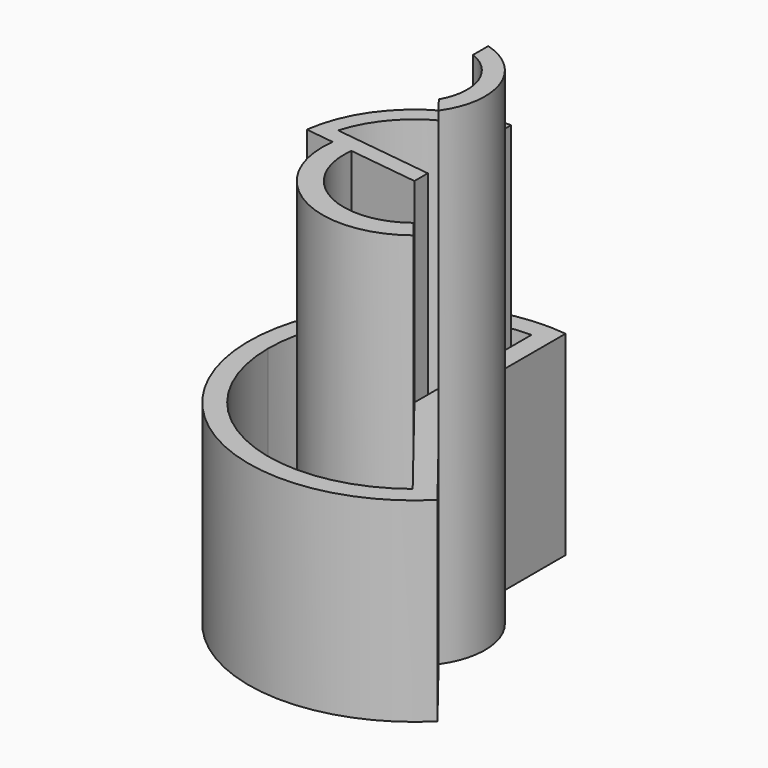
from build123d import *

# Parameters (mm, degrees)
F1_DEPTH = 20
F3_DEPTH = 25
F5_DEPTH = 50
F7_DEPTH = 40


with BuildPart() as f1:
    # F0 (on Top) → F1 (new body)
    with BuildSketch(Plane.XY):
        with BuildLine():
            ThreePointArc((2, 16.8819430161), (-7.8722441486, 15.0674407935), (-15, 8))
            Line((-15, 8), (-15, 1.73e-08))
            Line((-15, 1.73e-08), (-15, -8))
            ThreePointArc((-15, -8), (-2.5191792462, -16.8123090599), (11.9964033105, -12.0451777742))
            Line((11.9964033105, -12.0451777742), (2, 0.6911440225))
            Line((2, 0.6911440225), (2, 16.8819430161))
        make_face()
        with BuildLine():
            ThreePointArc((9.2611890072, -11.7995922884), (-6.5605702914, -13.4892148568), (-15, 1.73e-08))
            ThreePointArc((-15, 1.73e-08), (-10.6066017117, 10.6066017239), (0, 15))
            Line((0, 15), (0, 0))
            Line((0, 0), (9.2611890072, -11.7995922884))
        make_face(mode=Mode.SUBTRACT)
        with BuildLine():
            Line((-15, 1.73e-08), (-15, 8))
            ThreePointArc((-15, 8), (-17, 0), (-15, -8))
            Line((-15, -8), (-15, 1.73e-08))
        make_face()
    extrude(amount=F1_DEPTH)

    # F2 (on Top) → F3 (join)
    with BuildSketch(Plane.XY):
        with BuildLine():
            Line((-12.2984962158, 1.5833490395), (0, 0))
            Line((0, 0), (0, 1.7140309842))
            Line((0, 1.7140309842), (-10.2605423337, 3.0350071071))
            ThreePointArc((-10.2605423337, 3.0350071071), (-6.4037263169, 8.5721809582), (0, 10.6999998655))
            Line((0, 10.6999998655), (0, 12.4000001351))
            ThreePointArc((0, 12.4000001351), (-8.1892147074, 9.3111098064), (-12.2984962158, 1.5833490395))
        make_face()
    extrude(amount=F3_DEPTH)

    # F4 (on Top) → F5 (join)
    with BuildSketch(Plane.XY):
        with BuildLine():
            Line((4.6733382454, -2.7149306533), (5.8758648402, -4.2470582801))
            ThreePointArc((5.8758648402, -4.2470582801), (6.8524321368, 2.3680087553), (2, 6.968736733))
            Line((2, 6.968736733), (2, 5.0210495724))
            ThreePointArc((2, 5.0210495724), (5.1082979893, 1.7652848101), (4.6733382454, -2.7149306533))
        make_face()
    extrude(amount=F5_DEPTH)

    # F2 (on Top) + F6 (on Top) → F7 (join)
    with BuildSketch(Plane.XY):
        with BuildLine():
            Line((-12.2984962158, 1.5833490395), (0, 0))
            Line((0, 0), (0, 1.7140309842))
            Line((0, 1.7140309842), (-10.2605423337, 3.0350071071))
            ThreePointArc((-10.2605423337, 3.0350071071), (-6.4037263169, 8.5721809582), (0, 10.6999998655))
            Line((0, 10.6999998655), (0, 12.4000001351))
            ThreePointArc((0, 12.4000001351), (-8.1892147074, 9.3111098064), (-12.2984962158, 1.5833490395))
        make_face()
    with BuildSketch(Plane.XY):
        with BuildLine():
            ThreePointArc((-9.3527705449, 1.2041065834), (-4.6584728249, -8.1989524008), (5.8221775641, -7.4179807186))
            Line((5.8221775641, -7.4179807186), (4.4831560663, -5.7119462422))
            ThreePointArc((4.4831560663, -5.7119462422), (-3.5870875587, -6.3133050802), (-7.2017607749, 0.9271784782))
            Line((-7.2017607749, 0.9271784782), (-9.3527705449, 1.2041065834))
        make_face()
    extrude(amount=F7_DEPTH)


solid = f1.part
